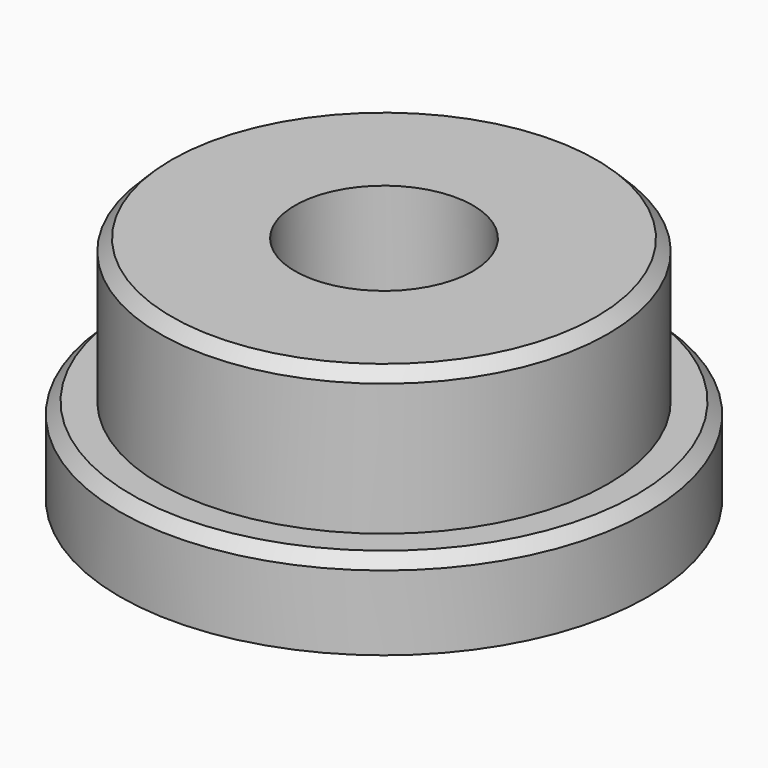
from build123d import *

# Parameters (mm, degrees)
SKETCH137_R     = 4.6
PAD045_DEPTH    = 1.5
SKETCH138_R     = 3.9
PAD046_DEPTH    = 4
SKETCH139_R     = 1.55
POCKET092_DEPTH = 13
CHAMFER003_SIZE = 0.2


with BuildPart() as part:
    # Sketch137 → Pad045 (new body)
    with BuildSketch(Plane.XY):
        Circle(SKETCH137_R)
    extrude(amount=PAD045_DEPTH)

    # Sketch138 (on Face2 of Pad045) → Pad046 (join)
    with BuildSketch(Plane(origin=(0, 0, 0), x_dir=(1, 0, 0), z_dir=(0, 0, -1))):
        Circle(SKETCH138_R)
    extrude(amount=-PAD046_DEPTH)

    # Sketch139 (on Face4 of Pad046) → Pocket092 (cut)
    with BuildSketch(Plane.XY.offset(4)):
        Circle(SKETCH139_R)
    extrude(amount=-POCKET092_DEPTH, mode=Mode.SUBTRACT)

    # Chamfer003
    chamfer003_edges = [part.edges().sort_by_distance(p)[0] for p in [
        (-3.9, 0, 4),
        (-4.6, 0, 1.5),
    ]]
    chamfer(chamfer003_edges, length=CHAMFER003_SIZE)


solid = part.part
